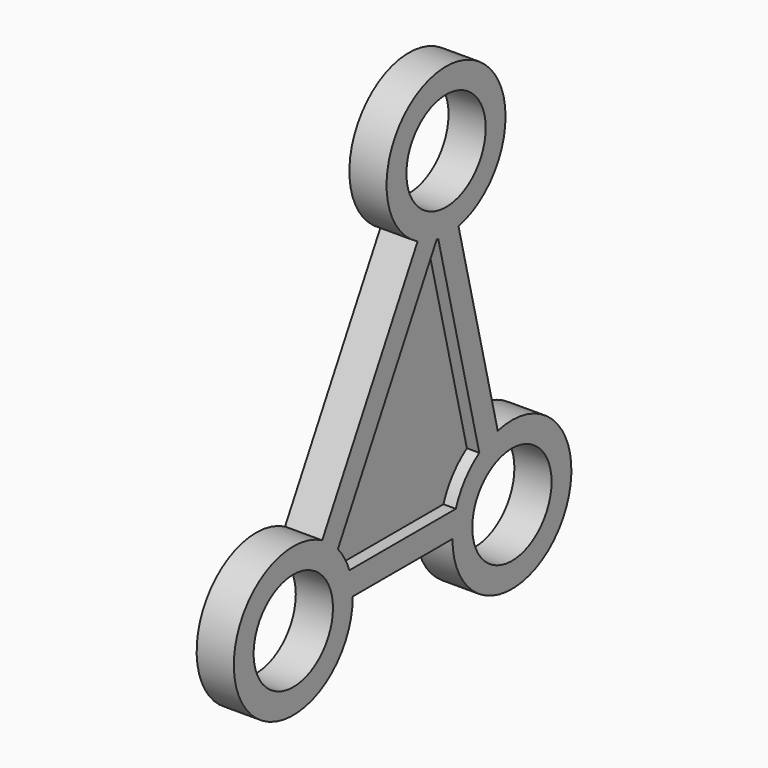
from build123d import *

# Parameters (mm, degrees)
F1_DEPTH = 7.5
F4_DEPTH = 2.5
F5_R     = 15
F6_DEPTH = 7.5
F7_R     = 10
F8_DEPTH = 25


with BuildPart() as f1:
    # F0 (on Right) → F1 (new body)
    with BuildSketch(Plane.YZ):
        Polygon((38.8950196707, 68.8394845703), (0.6499171856, 0), (55.7799171856, 0), align=None)
    extrude(amount=F1_DEPTH)

    # F3 (on offset) → F4 (cut)
    with BuildSketch(Plane.YZ.offset(7.5)):
        Polygon((49.4053139018, 4.9999990523), (37.0754110185, 55.2688359545), (9.1475897815, 4.9999990523), align=None)
    extrude(amount=-F4_DEPTH, mode=Mode.SUBTRACT)

    # F5 (on offset) → F6 (join)
    with BuildSketch(Plane.YZ.offset(7.5)):
        with Locations((39.171077311, 69.5889517665)):
            Circle(F5_R)
        with Locations((55.7799171856, 0)):
            Circle(F5_R)
        with Locations((0.6499171856, 0)):
            Circle(F5_R)
    extrude(amount=-F6_DEPTH)

    # F7 (on offset) → F8 (cut)
    with BuildSketch(Plane.YZ.offset(7.5)):
        with Locations((0.6499171856, 0)):
            Circle(F7_R)
        with Locations((55.7799171856, 0)):
            Circle(F7_R)
        with Locations((39.171077311, 69.5889517665)):
            Circle(F7_R)
    extrude(amount=-F8_DEPTH, mode=Mode.SUBTRACT)


solid = f1.part
